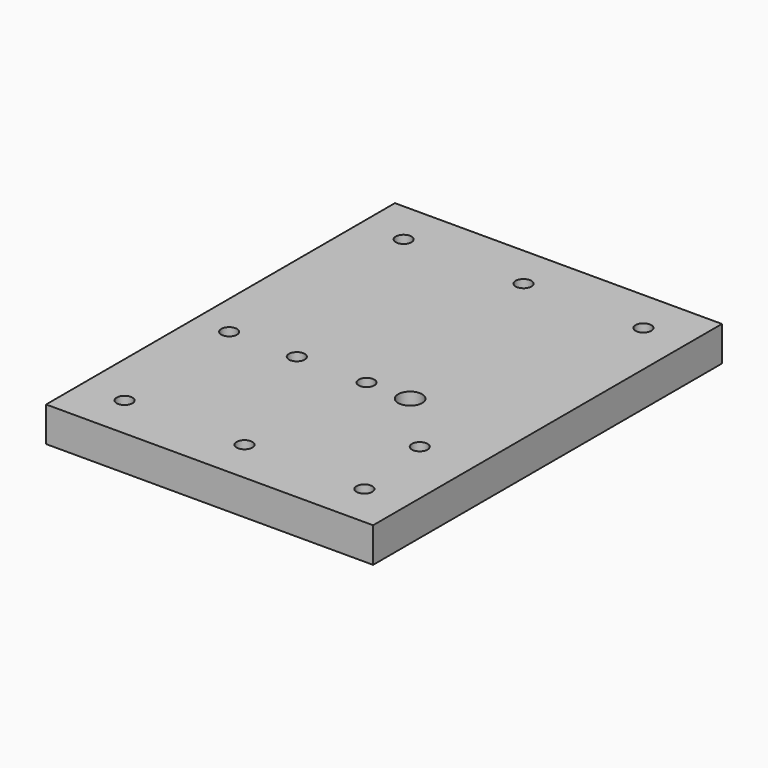
from build123d import *

# Parameters (mm, degrees)
BOX_W         = 75
BOX_H         = 100
BOX_DEPTH     = 8
SKETCH_R      = 1.8
HOLE_DEPTH    = 8.001
SKETCH001_R   = 1.8
HOLE001_DEPTH = 25
SKETCH003_R   = 2.75
HOLE002_DEPTH = 8.001


with BuildPart() as part:
    # Box → Box (join)
    with BuildSketch(Plane.XY):
        with Locations((37.5, 50)):
            Rectangle(BOX_W, BOX_H)
    extrude(amount=BOX_DEPTH)

    # Sketch (on Face5 of Box) → Hole (cut, through all)
    with BuildSketch(Plane(origin=(0, 0, 0), x_dir=(1, 0, 0), z_dir=(0, 0, -1))):
        with Locations((10, -10)):
            Circle(SKETCH_R)
        with Locations((37.5, -10)):
            Circle(SKETCH_R)
        with Locations((65, -10)):
            Circle(SKETCH_R)
        with Locations((10, -90)):
            Circle(SKETCH_R)
        with Locations((37.5, -90)):
            Circle(SKETCH_R)
        with Locations((65, -90)):
            Circle(SKETCH_R)
    extrude(amount=-HOLE_DEPTH, mode=Mode.SUBTRACT)

    # Sketch001 (on Face5 of Hole) → Hole001 (cut)
    with BuildSketch(Plane(origin=(0, 0, 0), x_dir=(1, 0, 0), z_dir=(0, 0, -1))):
        with Locations((39.5, -42.5)):
            Circle(SKETCH001_R)
        with Locations((23.5, -42.5)):
            Circle(SKETCH001_R)
        with Locations((8, -42.5)):
            Circle(SKETCH001_R)
        with Locations((62.5, -29)):
            Circle(SKETCH001_R)
    extrude(amount=-HOLE001_DEPTH, mode=Mode.SUBTRACT)

    # Sketch003 (on Face5 of Hole001) → Hole002 (cut, through all)
    with BuildSketch(Plane(origin=(0, 0, 0), x_dir=(1, 0, 0), z_dir=(0, 0, -1))):
        with Locations((49.5, -42.5)):
            Circle(SKETCH003_R)
    extrude(amount=-HOLE002_DEPTH, mode=Mode.SUBTRACT)


solid = part.part
